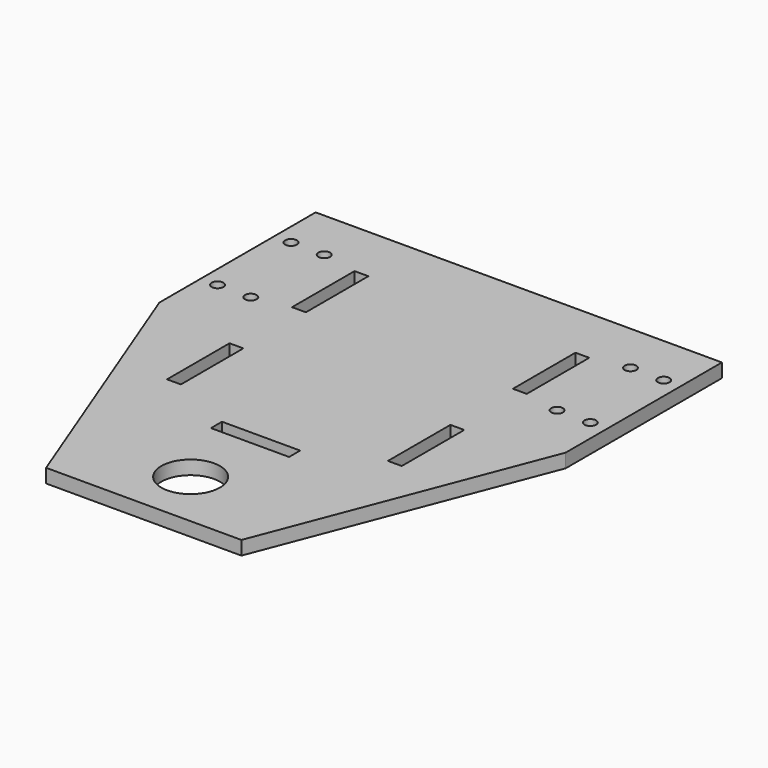
from build123d import *

# Parameters (mm, degrees)
F1_DEPTH = 4.4958
F2_R     = 1.905
F3_DEPTH = 4.4968
F4_W     = 4.4958
F4_H     = 25.4
F4_R     = 9.525
F4_W_2   = 25.4
F4_H_2   = 4.4958
F5_DEPTH = 4.4968


with BuildPart() as f1:
    # F0 (on Top) → F1 (new body)
    with BuildSketch(Plane.XY):
        Polygon((66.04, 76.2), (-66.04, 76.2), (-66.04, 12.7), (-31.75, -76.2), (31.75, -76.2), (66.04, 12.7), align=None)
    extrude(amount=F1_DEPTH)

    # F2 (on face) → F3 (cut, through all)
    with BuildSketch(Plane.XY.offset(4.4958)):
        with Locations((-60.579, 59.3725)):
            Circle(F2_R)
        with Locations((-49.784, 59.3725)):
            Circle(F2_R)
        with Locations((-49.784, 29.5275)):
            Circle(F2_R)
        with Locations((-60.579, 29.5275)):
            Circle(F2_R)
        with Locations((60.579, 59.3725)):
            Circle(F2_R)
        with Locations((49.784, 29.5275)):
            Circle(F2_R)
        with Locations((49.784, 59.3725)):
            Circle(F2_R)
        with Locations((60.579, 29.5275)):
            Circle(F2_R)
    extrude(amount=-F3_DEPTH, mode=Mode.SUBTRACT)

    # F4 (on face) → F5 (cut, through all)
    with BuildSketch(Plane.XY.offset(4.4958)):
        with Locations((-35.9029, 44.45)):
            Rectangle(F4_W, F4_H)
        with Locations((-35.9029, -6.35)):
            Rectangle(F4_W, F4_H)
        with Locations((35.9029, 44.45)):
            Rectangle(F4_W, F4_H)
        with Locations((35.9029, -6.35)):
            Rectangle(F4_W, F4_H)
        with Locations((0, -57.15)):
            Circle(F4_R)
        with Locations((0, -30.7721)):
            Rectangle(F4_W_2, F4_H_2)
    extrude(amount=-F5_DEPTH, mode=Mode.SUBTRACT)


solid = f1.part
